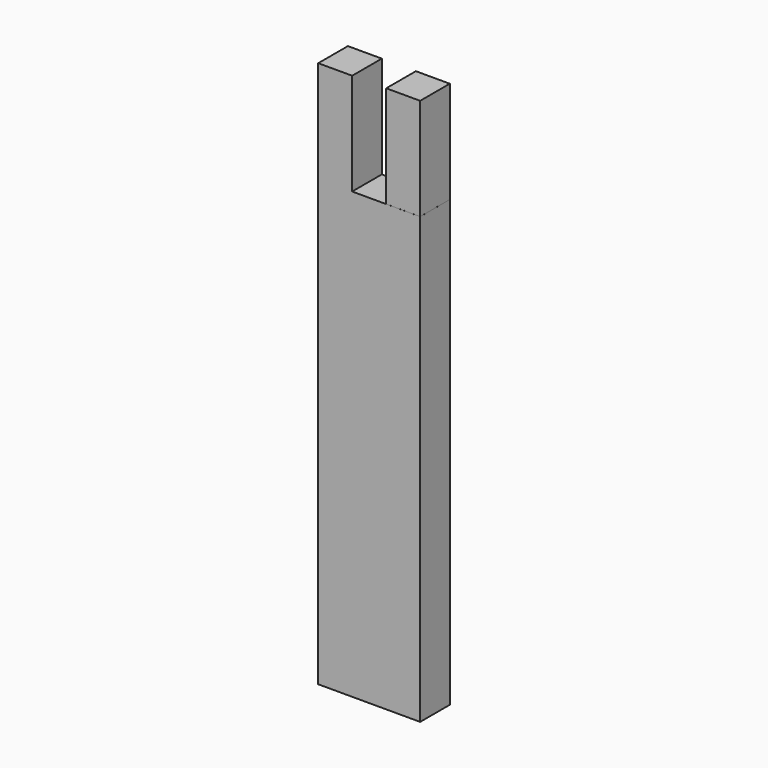
from build123d import *

# Parameters (mm, degrees)
F0_W     = 139.7
F0_H     = 50.8
F1_DEPTH = 609.6
F2_W     = 46.482
F2_H     = 50.776334
F3_DEPTH = 139.7
F4_W     = 46.482
F4_H     = 50.741273
F5_DEPTH = 139.7


with BuildPart() as f1:
    # F0 (on Top) → F1 (new body)
    with BuildSketch(Plane.XY):
        with Locations((4.855842, 45.481372)):
            Rectangle(F0_W, F0_H)
    extrude(amount=-F1_DEPTH)

    # F2 (on face) → F3 (join)
    with BuildSketch(Plane.XY):
        with Locations((-41.699169, 45.469539)):
            Rectangle(F2_W, F2_H)
    extrude(amount=F3_DEPTH)

    # F4 (on face) → F5 (join)
    with BuildSketch(Plane.XY):
        with Locations((51.438496, 45.510735)):
            Rectangle(F4_W, F4_H)
    extrude(amount=F5_DEPTH)


solid = f1.part
